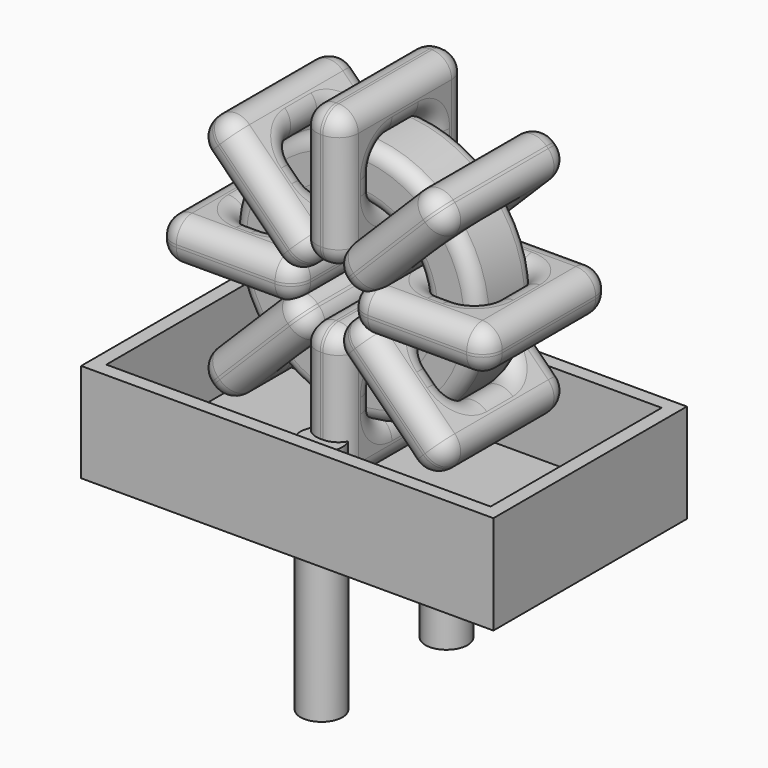
from build123d import *

# Parameters (mm, degrees)
SKETCH001_R       = 0.75
PAD001_DEPTH      = 1.5
PAD001_DEPTH_BACK = 7
SKETCH_R          = 4.392
SKETCH_R_2        = 2.455
PAD_DEPTH         = 1.29
FILLET_R          = 0.5
SKETCH003_W       = 4.937
SKETCH003_H       = 5.58
SKETCH003_W_2     = 1.937
SKETCH003_H_2     = 2.58
PAD002_DEPTH      = 0.75
FILLET001_R       = 0.705
SKETCH004_W       = 4.937
SKETCH004_H       = 5.58
SKETCH004_W_2     = 1.937
SKETCH004_H_2     = 2.58
PAD003_DEPTH      = 0.75
FILLET002_R       = 0.705
SKETCH005_W       = 4.937
SKETCH005_H       = 5.58
SKETCH005_W_2     = 1.937
SKETCH005_H_2     = 2.58
PAD004_DEPTH      = 0.75
FILLET003_R       = 0.705
SKETCH006_W       = 4.937
SKETCH006_H       = 5.58
SKETCH006_W_2     = 1.937
SKETCH006_H_2     = 2.58
PAD005_DEPTH      = 0.75
FILLET004_R       = 0.705
SKETCH007_W       = 14.73
SKETCH007_H       = 8.64
PAD006_DEPTH      = 0.5
SKETCH008_W       = 14.73
SKETCH008_H       = 8.64
SKETCH008_W_2     = 13.73
SKETCH008_H_2     = 7.64
PAD007_DEPTH      = 3.5352


with BuildPart() as pad001:
    # Sketch001 → Pad001 (new body, two sides)
    with BuildSketch(Plane.XY.offset(2)) as pad001_sk:
        Circle(SKETCH001_R)
        with Locations((0, -5.58)):
            Circle(SKETCH001_R)
    extrude(amount=PAD001_DEPTH)
    extrude(pad001_sk.sketch, amount=-PAD001_DEPTH_BACK)


with BuildPart() as fillet_body:
    # Sketch → Pad (new body, symmetric)
    with BuildSketch(Plane.XZ.offset(2.79)):
        with Locations((0, 7.892)):
            Circle(SKETCH_R)
        with Locations((0, 7.892)):
            Circle(SKETCH_R_2, mode=Mode.SUBTRACT)
    extrude(amount=PAD_DEPTH, both=True)

    # Fillet
    fillet_edges = [fillet_body.edges().sort_by_distance(p)[0] for p in [
        (-2.455, -4.08, 7.892),
        (-4.392, -4.08, 7.892),
        (-4.392, -1.5, 7.892),
    ]]
    fillet(fillet_edges, radius=FILLET_R)


with BuildPart() as fillet001:
    # Sketch003 → Pad002 (new body, symmetric)
    with BuildSketch(Plane(origin=(0, 0, 7.892), x_dir=(1, 0, 0), z_dir=(0, 0, -1))):
        with Locations((-3.4235, 2.79)):
            Rectangle(SKETCH003_W, SKETCH003_H)
        with Locations((-3.4235, 2.79)):
            Rectangle(SKETCH003_W_2, SKETCH003_H_2, mode=Mode.SUBTRACT)
        with Locations((3.4235, 2.79)):
            Rectangle(SKETCH003_W, SKETCH003_H)
        with Locations((3.4235, 2.79)):
            Rectangle(SKETCH003_W_2, SKETCH003_H_2, mode=Mode.SUBTRACT)
    extrude(amount=PAD002_DEPTH, both=True)

    # Fillet001
    fillet001_edges = [fillet001.edges().sort_by_distance(p)[0] for p in [
        (2.455, -4.08, 7.892),
        (4.392, -1.5, 7.892),
        (3.4235, -1.5, 8.642),
        (3.4235, -1.5, 7.142),
        (5.892, 0, 7.892),
        (0.955, 0, 7.892),
        (3.4235, 0, 8.642),
        (3.4235, 0, 7.142),
        (0.955, -5.58, 7.892),
        (0.955, -2.79, 8.642),
        (0.955, -2.79, 7.142),
        (-4.392, -1.5, 7.892),
        (-4.392, -4.08, 7.892),
        (-4.392, -2.79, 8.642),
        (-4.392, -2.79, 7.142),
        (-2.455, -1.5, 7.892),
        (-3.4235, -1.5, 8.642),
        (-3.4235, -1.5, 7.142),
        (-0.955, -5.58, 7.892),
        (-0.955, 0, 7.892),
        (-0.955, -2.79, 8.642),
        (-0.955, -2.79, 7.142),
        (-5.892, -5.58, 7.892),
        (-3.4235, -5.58, 8.642),
        (-3.4235, -5.58, 7.142),
        (2.455, -1.5, 7.892),
        (2.455, -2.79, 8.642),
        (2.455, -2.79, 7.142),
        (-2.455, -4.08, 7.892),
        (-3.4235, -4.08, 8.642),
        (-3.4235, -4.08, 7.142),
        (-2.455, -2.79, 8.642),
        (-2.455, -2.79, 7.142),
        (-5.892, 0, 7.892),
        (-5.892, -2.79, 8.642),
        (-5.892, -2.79, 7.142),
        (-3.4235, 0, 8.642),
        (-3.4235, 0, 7.142),
        (5.892, -5.58, 7.892),
        (3.4235, -5.58, 8.642),
        (3.4235, -5.58, 7.142),
        (5.892, -2.79, 8.642),
        (5.892, -2.79, 7.142),
        (4.392, -4.08, 7.892),
        (3.4235, -4.08, 8.642),
        (3.4235, -4.08, 7.142),
        (4.392, -2.79, 8.642),
        (4.392, -2.79, 7.142),
    ]]
    fillet(fillet001_edges, radius=FILLET001_R)


with BuildPart() as fillet002:
    # Sketch004 → Pad003 (new body, symmetric)
    with BuildSketch(Plane(origin=(0, 0, 7.892), x_dir=(0.707108, 0, 0.707106), z_dir=(0.707106, 0, -0.707108))):
        with Locations((-3.4235, 2.79)):
            Rectangle(SKETCH004_W, SKETCH004_H)
        with Locations((-3.4235, 2.79)):
            Rectangle(SKETCH004_W_2, SKETCH004_H_2, mode=Mode.SUBTRACT)
        with Locations((3.4235, 2.79)):
            Rectangle(SKETCH004_W, SKETCH004_H)
        with Locations((3.4235, 2.79)):
            Rectangle(SKETCH004_W_2, SKETCH004_H_2, mode=Mode.SUBTRACT)
    extrude(amount=PAD003_DEPTH, both=True)

    # Fillet002
    fillet002_edges = [fillet002.edges().sort_by_distance(p)[0] for p in [
        (-1.735949, -4.08, 6.156055),
        (-1.735949, -1.5, 6.156055),
        (-2.266279, -2.79, 6.686386),
        (-1.20562, -2.79, 5.625724),
        (-4.166278, -5.58, 3.725732),
        (-4.166278, 0, 3.725732),
        (-4.696607, -2.79, 4.256062),
        (-3.635949, -2.79, 3.195401),
        (-0.675288, -5.58, 7.216714),
        (-2.951112, 0, 6.001553),
        (-1.890453, 0, 4.940892),
        (1.735949, -4.08, 9.627945),
        (3.105617, -4.08, 10.997609),
        (1.890453, -4.08, 10.843108),
        (2.951112, -4.08, 9.782447),
        (3.105617, -1.5, 10.997609),
        (2.575287, -2.79, 11.52794),
        (3.635946, -2.79, 10.467279),
        (0.675288, 0, 8.567286),
        (0.675288, -5.58, 8.567286),
        (0.144958, -2.79, 9.097617),
        (1.205617, -2.79, 8.036955),
        (4.166278, 0, 12.058268),
        (1.890453, 0, 10.843108),
        (2.951112, 0, 9.782447),
        (-3.105617, -4.08, 4.786391),
        (-2.951112, -4.08, 6.001553),
        (-1.890453, -4.08, 4.940892),
        (1.735949, -1.5, 9.627945),
        (1.20562, -2.79, 10.158276),
        (2.266279, -2.79, 9.097614),
        (1.890453, -1.5, 10.843108),
        (2.951112, -1.5, 9.782447),
        (4.166278, -5.58, 12.058268),
        (3.635949, -2.79, 12.588599),
        (4.696607, -2.79, 11.527938),
        (1.890453, -5.58, 10.843108),
        (2.951112, -5.58, 9.782447),
        (-0.675288, 0, 7.216714),
        (-1.205617, -2.79, 7.747045),
        (-0.144958, -2.79, 6.686383),
        (-2.951112, -5.58, 6.001553),
        (-1.890453, -5.58, 4.940892),
        (-3.105617, -1.5, 4.786391),
        (-3.635946, -2.79, 5.316721),
        (-2.575287, -2.79, 4.25606),
        (-2.951112, -1.5, 6.001553),
        (-1.890453, -1.5, 4.940892),
    ]]
    fillet(fillet002_edges, radius=FILLET002_R)


with BuildPart() as fillet003:
    # Sketch005 → Pad004 (new body, symmetric)
    with BuildSketch(Plane(origin=(0, 0, 7.892), x_dir=(0.707108, 0, -0.707106), z_dir=(-0.707106, 0, -0.707108))):
        with Locations((-3.4235, 2.79)):
            Rectangle(SKETCH005_W, SKETCH005_H)
        with Locations((-3.4235, 2.79)):
            Rectangle(SKETCH005_W_2, SKETCH005_H_2, mode=Mode.SUBTRACT)
        with Locations((3.4235, 2.79)):
            Rectangle(SKETCH005_W, SKETCH005_H)
        with Locations((3.4235, 2.79)):
            Rectangle(SKETCH005_W_2, SKETCH005_H_2, mode=Mode.SUBTRACT)
    extrude(amount=PAD004_DEPTH, both=True)

    # Fillet003
    fillet003_edges = [fillet003.edges().sort_by_distance(p)[0] for p in [
        (-1.735949, -4.08, 9.627945),
        (-1.735949, -1.5, 9.627945),
        (-1.20562, -2.79, 10.158276),
        (-2.266279, -2.79, 9.097614),
        (-4.166278, -5.58, 12.058268),
        (-4.166278, 0, 12.058268),
        (-3.635949, -2.79, 12.588599),
        (-4.696607, -2.79, 11.527938),
        (-0.675288, -5.58, 8.567286),
        (-1.890453, 0, 10.843108),
        (-2.951112, 0, 9.782447),
        (1.735949, -4.08, 6.156055),
        (3.105617, -4.08, 4.786391),
        (2.951112, -4.08, 6.001553),
        (1.890453, -4.08, 4.940892),
        (3.105617, -1.5, 4.786391),
        (3.635946, -2.79, 5.316721),
        (2.575287, -2.79, 4.25606),
        (0.675288, -5.58, 7.216714),
        (4.166278, -5.58, 3.725732),
        (2.951112, -5.58, 6.001553),
        (1.890453, -5.58, 4.940892),
        (4.166278, 0, 3.725732),
        (4.696607, -2.79, 4.256062),
        (3.635949, -2.79, 3.195401),
        (-3.105617, -4.08, 10.997609),
        (-1.890453, -4.08, 10.843108),
        (-2.951112, -4.08, 9.782447),
        (1.735949, -1.5, 6.156055),
        (2.266279, -2.79, 6.686386),
        (1.20562, -2.79, 5.625724),
        (2.951112, -1.5, 6.001553),
        (1.890453, -1.5, 4.940892),
        (0.675288, 0, 7.216714),
        (2.951112, 0, 6.001553),
        (1.890453, 0, 4.940892),
        (1.205617, -2.79, 7.747045),
        (0.144958, -2.79, 6.686383),
        (-0.675288, 0, 8.567286),
        (-0.144958, -2.79, 9.097617),
        (-1.205617, -2.79, 8.036955),
        (-1.890453, -5.58, 10.843108),
        (-2.951112, -5.58, 9.782447),
        (-3.105617, -1.5, 10.997609),
        (-2.575287, -2.79, 11.52794),
        (-3.635946, -2.79, 10.467279),
        (-1.890453, -1.5, 10.843108),
        (-2.951112, -1.5, 9.782447),
    ]]
    fillet(fillet003_edges, radius=FILLET003_R)


with BuildPart() as fillet004:
    # Sketch006 → Pad005 (new body, symmetric)
    with BuildSketch(Plane(origin=(0, 0, 7.892), x_dir=(0, 0, 1), z_dir=(1, 0, 0))):
        with Locations((-3.4235, 2.79)):
            Rectangle(SKETCH006_W, SKETCH006_H)
        with Locations((-3.4235, 2.79)):
            Rectangle(SKETCH006_W_2, SKETCH006_H_2, mode=Mode.SUBTRACT)
        with Locations((3.4235, 2.79)):
            Rectangle(SKETCH006_W, SKETCH006_H)
        with Locations((3.4235, 2.79)):
            Rectangle(SKETCH006_W_2, SKETCH006_H_2, mode=Mode.SUBTRACT)
    extrude(amount=PAD005_DEPTH, both=True)

    # Fillet004
    fillet004_edges = [fillet004.edges().sort_by_distance(p)[0] for p in [
        (0, -4.08, 5.437),
        (0, -1.5, 5.437),
        (-0.75, -2.79, 5.437),
        (0.75, -2.79, 5.437),
        (0, -5.58, 2),
        (0, -5.58, 6.937),
        (-0.75, -5.58, 4.4685),
        (0.75, -5.58, 4.4685),
        (0, 0, 6.937),
        (-0.75, -2.79, 6.937),
        (0.75, -2.79, 6.937),
        (0, -4.08, 10.347),
        (0, -4.08, 12.284),
        (-0.75, -4.08, 11.3155),
        (0.75, -4.08, 11.3155),
        (0, -1.5, 12.284),
        (-0.75, -2.79, 12.284),
        (0.75, -2.79, 12.284),
        (0, -5.58, 8.847),
        (0, -5.58, 13.784),
        (-0.75, -5.58, 11.3155),
        (0.75, -5.58, 11.3155),
        (0, 0, 13.784),
        (-0.75, -2.79, 13.784),
        (0.75, -2.79, 13.784),
        (0, -4.08, 3.5),
        (-0.75, -4.08, 4.4685),
        (0.75, -4.08, 4.4685),
        (0, -1.5, 10.347),
        (-0.75, -2.79, 10.347),
        (0.75, -2.79, 10.347),
        (-0.75, -1.5, 11.3155),
        (0.75, -1.5, 11.3155),
        (0, 0, 8.847),
        (-0.75, 0, 11.3155),
        (0.75, 0, 11.3155),
        (-0.75, -2.79, 8.847),
        (0.75, -2.79, 8.847),
        (0, 0, 2),
        (-0.75, 0, 4.4685),
        (0.75, 0, 4.4685),
        (-0.75, -2.79, 2),
        (0.75, -2.79, 2),
        (0, -1.5, 3.5),
        (-0.75, -2.79, 3.5),
        (0.75, -2.79, 3.5),
        (-0.75, -1.5, 4.4685),
        (0.75, -1.5, 4.4685),
    ]]
    fillet(fillet004_edges, radius=FILLET004_R)


with BuildPart() as pad006:
    # Sketch007 → Pad006 (new body)
    with BuildSketch(Plane.XY.offset(0.5)):
        with Locations((0, -2.79)):
            Rectangle(SKETCH007_W, SKETCH007_H)
    extrude(amount=PAD006_DEPTH)


with BuildPart() as pad007:
    # Sketch008 → Pad007 (new body)
    with BuildSketch(Plane.XY.offset(0.5)):
        with Locations((0, -2.79)):
            Rectangle(SKETCH008_W, SKETCH008_H)
        with Locations((0, -2.79)):
            Rectangle(SKETCH008_W_2, SKETCH008_H_2, mode=Mode.SUBTRACT)
    extrude(amount=PAD007_DEPTH)


solid = Compound([pad001.part, fillet_body.part, fillet001.part, fillet002.part, fillet003.part, fillet004.part, pad006.part, pad007.part])
